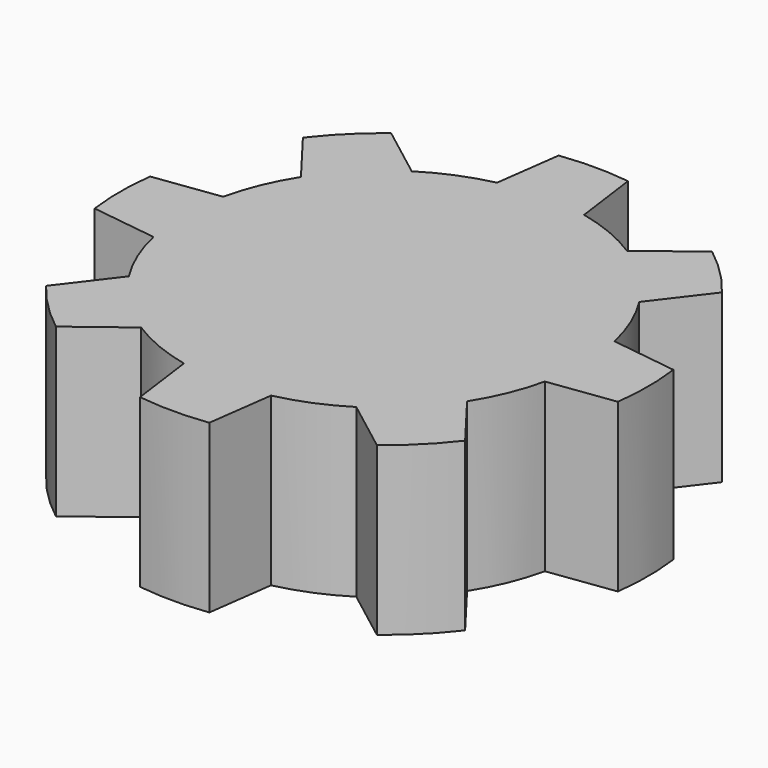
from build123d import *

# Parameters (mm, degrees)
F1_DEPTH = 25


with BuildPart() as f1:
    # F0 (on Top) → F1 (new body)
    with BuildSketch(Plane.XY):
        with BuildLine():
            ThreePointArc((29.813631, -39.158033), (35, -39.5), (40.186369, -39.158033))
            Line((40.186369, -39.158033), (41.516062, -29.2838))
            ThreePointArc((41.516062, -29.2838), (46.480503, -27.716386), (51.099222, -25.314325))
            Line((51.099222, -25.314325), (59.021594, -31.356228))
            ThreePointArc((59.021594, -31.356228), (62.930718, -27.930718), (66.356228, -24.021594))
            Line((66.356228, -24.021594), (60.314325, -16.099222))
            ThreePointArc((60.314325, -16.099222), (62.716386, -11.480503), (64.2838, -6.516062))
            Line((64.2838, -6.516062), (74.158033, -5.186369))
            ThreePointArc((74.158033, -5.186369), (74.5, 0), (74.158033, 5.186369))
            Line((74.158033, 5.186369), (64.2838, 6.516062))
            ThreePointArc((64.2838, 6.516062), (62.716386, 11.480503), (60.314325, 16.099222))
            Line((60.314325, 16.099222), (66.356228, 24.021594))
            ThreePointArc((66.356228, 24.021594), (62.930718, 27.930718), (59.021594, 31.356228))
            Line((59.021594, 31.356228), (51.099222, 25.314325))
            ThreePointArc((51.099222, 25.314325), (46.480503, 27.716386), (41.516062, 29.2838))
            Line((41.516062, 29.2838), (40.186369, 39.158033))
            ThreePointArc((40.186369, 39.158033), (35, 39.5), (29.813631, 39.158033))
            Line((29.813631, 39.158033), (28.483938, 29.2838))
            ThreePointArc((28.483938, 29.2838), (23.519497, 27.716386), (18.900778, 25.314325))
            Line((18.900778, 25.314325), (10.978406, 31.356228))
            ThreePointArc((10.978406, 31.356228), (7.069282, 27.930718), (3.643772, 24.021594))
            Line((3.643772, 24.021594), (9.685675, 16.099222))
            ThreePointArc((9.685675, 16.099222), (7.283614, 11.480503), (5.7162, 6.516062))
            Line((5.7162, 6.516062), (-4.158033, 5.186369))
            ThreePointArc((-4.158033, 5.186369), (-4.5, 0), (-4.158033, -5.186369))
            Line((-4.158033, -5.186369), (5.7162, -6.516062))
            ThreePointArc((5.7162, -6.516062), (7.283614, -11.480503), (9.685675, -16.099222))
            Line((9.685675, -16.099222), (3.643772, -24.021594))
            ThreePointArc((3.643772, -24.021594), (7.069282, -27.930718), (10.978406, -31.356228))
            Line((10.978406, -31.356228), (18.900778, -25.314325))
            ThreePointArc((18.900778, -25.314325), (23.519497, -27.716386), (28.483938, -29.2838))
            Line((28.483938, -29.2838), (29.813631, -39.158033))
        make_face()
    extrude(amount=F1_DEPTH)


solid = f1.part
